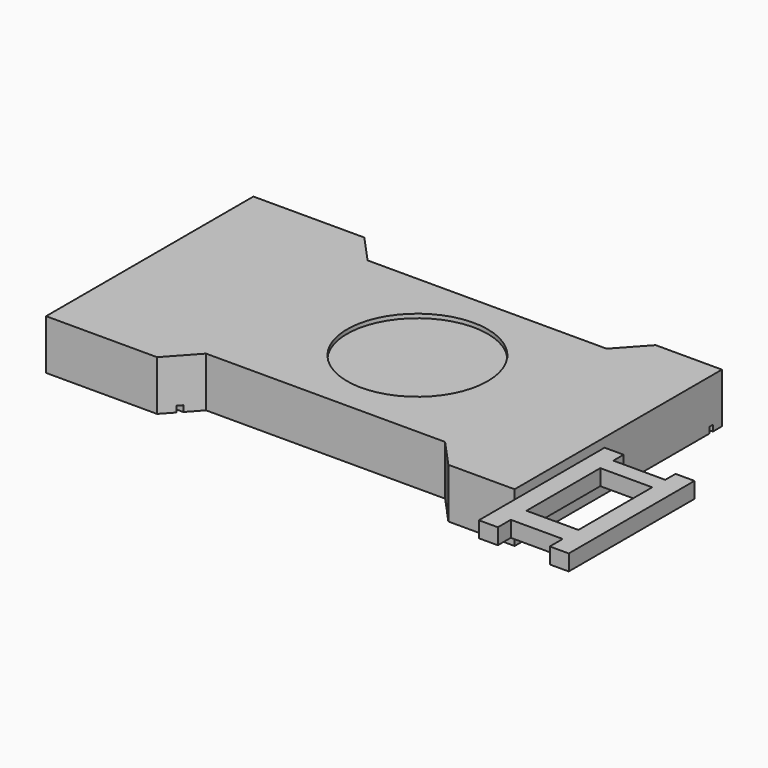
from build123d import *

# Parameters (mm, degrees)
F0_W     = 165.1
F0_H     = 1276.35
F0_W_2   = 419.1
F0_H_2   = 180.975
F0_W_3   = 328.358334
F0_H_3   = 583.276153
F1_DEPTH = 315.9125
F3_W     = 993.775
F3_H     = 57.628408
F3_H_2   = 157.95625
F4_DEPTH = 568.325
F5_R     = 444.5
F6_DEPTH = 25.4
F7_W     = 25.4
F7_H     = 38.1
F8_DEPTH = 3530.601


with BuildPart() as f1:
    # F0 (on Top) → F1 (new body)
    with BuildSketch(Plane.XY):
        Polygon((350.8375, 819.15), (350.8375, 638.175), (515.9375, 638.175), align=None)
        Polygon((350.8375, -638.175), (350.8375, -819.15), (515.9375, -638.175), align=None)
        Polygon((350.8375, 638.175), (350.8375, -638.175), (515.9375, -638.175), (2027.2375, -638.175), (2027.2375, 638.175), (515.9375, 638.175), align=None)
        with Locations((2109.7875, 0)):
            Rectangle(F0_W, F0_H)
        with Locations((2401.8875, 728.6625)):
            Rectangle(F0_W_2, F0_H_2)
        Polygon((2192.3375, 638.175), (2192.3375, -638.175), (2611.4375, -638.175), (2611.4375, -107.95), (2611.4375, 638.175), align=None)
        Polygon((2611.4375, -638.175), (2192.3375, -638.175), (2192.3375, -732.404232), (2192.3375, -819.15), (2611.4375, -819.15), align=None)
        Polygon((2192.3375, -638.175), (2027.2375, -638.175), (2192.3375, -819.15), (2192.3375, -732.404232), align=None)
        Polygon((-350.8375, -819.15), (350.8375, -819.15), (350.8375, -638.175), (350.8375, 638.175), (350.8375, 819.15), (-350.8375, 819.15), align=None)
        Polygon((2192.3375, 819.15), (2027.2375, 638.175), (2192.3375, 638.175), align=None)
        Polygon((2611.4375, -107.95), (2611.4375, -638.175), (2611.4375, -819.15), (2611.4375, -1031.997681), (2611.4375, -1101.725), (2731.420833, -1101.725), (2731.420833, -999.339616), (3059.779167, -999.339616), (3059.779167, -1101.725), (3179.7625, -1101.725), (3179.7625, -107.95), (3059.779167, -107.95), (3059.779167, -189.272612), (2731.420833, -189.272612), (2731.420833, -107.95), align=None)
        with Locations((2895.6, -583.813607)):
            Rectangle(F0_W_3, F0_H_3, mode=Mode.SUBTRACT)
    extrude(amount=F1_DEPTH)

    # F3 (on face) → F4 (cut)
    with BuildSketch(Plane.YZ.offset(3179.7625)):
        with Locations((-604.8375, 287.098296)):
            Rectangle(F3_W, F3_H)
        with Locations((-604.8375, 78.978125)):
            Rectangle(F3_W, F3_H_2)
    extrude(amount=-F4_DEPTH, mode=Mode.SUBTRACT)

    # F5 (on face) → F6 (cut)
    with BuildSketch(Plane.XY.offset(315.9125)):
        with Locations((1341.4375, 0)):
            Circle(F5_R)
    extrude(amount=-F6_DEPTH, mode=Mode.SUBTRACT)

    # F7 (on face) → F8 (cut, through all)
    with BuildSketch(Plane(origin=(-350.8375, 0, 0), x_dir=(0, -1, 0), z_dir=(-1, 0, 0))):
        with Locations((-735.0125, 19.05)):
            Rectangle(F7_W, F7_H)
        with Locations((735.0125, 19.05)):
            Rectangle(F7_W, F7_H)
    extrude(amount=-F8_DEPTH, mode=Mode.SUBTRACT)


solid = f1.part
